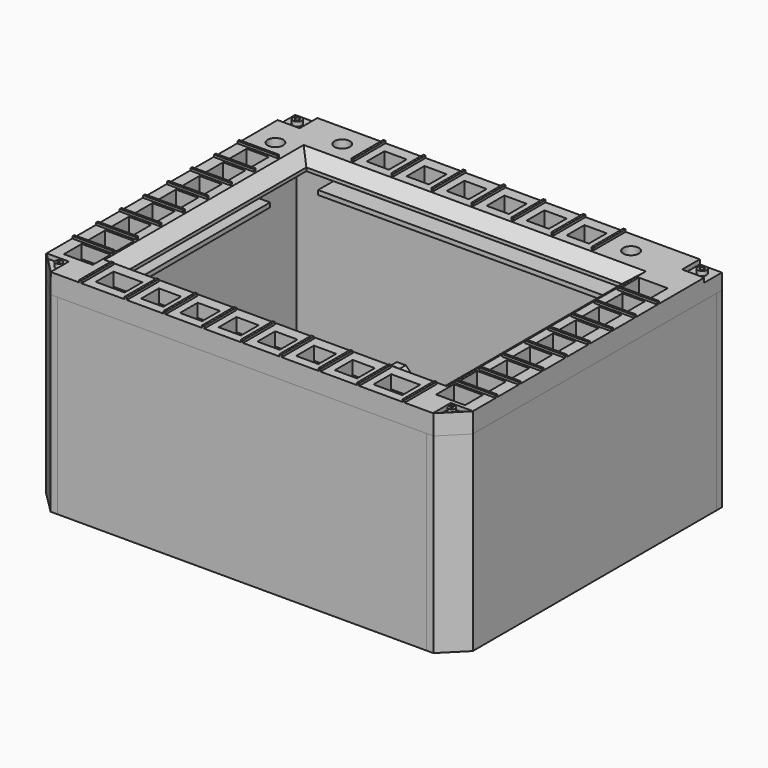
from build123d import *

# Parameters (mm, degrees)
SKETCH_W        = 192
SKETCH_H        = 150
SKETCH_W_2      = 142
SKETCH_H_2      = 100
PAD_DEPTH       = 9
SKETCH001_W     = 156
SKETCH001_H     = 119
POCKET_DEPTH    = 3
SKETCH002_W     = 13
SKETCH002_H     = 10
SKETCH002_W_2   = 10
POCKET001_DEPTH = 9.001
SKETCH003_R     = 3.5
SKETCH003_W     = 10
SKETCH003_H     = 10
SKETCH003_W_2   = 13
POCKET002_DEPTH = 9.001
SKETCH004_W     = 18
SKETCH004_H     = 1
SKETCH004_W_2   = 1
SKETCH004_H_2   = 18
PAD001_DEPTH    = 1
POCKET003_DEPTH = 9.001
SKETCH005_W     = 10
SKETCH005_H     = 10
SKETCH005_R     = 2
SKETCH005_R_2   = 1
POCKET004_DEPTH = 2
SKETCH006_R     = 1.5
SKETCH006_R_2   = 0.5
POCKET005_DEPTH = 2
SKETCH007_W     = 45
SKETCH007_H     = 5
SKETCH007_W_2   = 10
SKETCH007_H_2   = 15
POCKET006_DEPTH = 3
CHAMFER_SIZE2   = 4.5
CHAMFER_SIZE    = 6
SKETCH010_W     = 192
SKETCH010_H     = 3
PAD002_DEPTH    = 86
SKETCH011_W     = 3.131538
SKETCH011_H     = 137.224609
SKETCH011_W_2   = 3.034195
SKETCH011_H_2   = 137.037971
PAD003_DEPTH    = 86
PAD004_DEPTH    = 86
PAD005_DEPTH    = 86
SKETCH021_W     = 10
SKETCH021_H     = 10
PAD007_DEPTH    = 10
CHAMFER001_SIZE = 3
CHAMFER002_SIZE = 3
SKETCH022_W     = 10
SKETCH022_H     = 10
PAD008_DEPTH    = 10
CHAMFER003_SIZE = 3
SKETCH014_W     = 10
SKETCH014_H     = 10
PAD009_DEPTH    = 10
SKETCH023_W     = 10
SKETCH023_H     = 10
PAD010_DEPTH    = 10
CHAMFER004_SIZE = 3
CHAMFER005_SIZE = 3
SKETCH025_R     = 1.7
HOLE001_DEPTH   = 25
HOLE001_TIPS_R  = 1.7
SKETCH029_W     = 148.64
SKETCH029_H     = 2
PAD011_DEPTH    = 12
SKETCH026_W     = 145
SKETCH026_H     = 2
PAD012_DEPTH    = 12
SKETCH028_W     = 104
SKETCH028_H     = 2
PAD013_DEPTH    = 12
SKETCH027_W     = 114
SKETCH027_H     = 2
PAD014_DEPTH    = 12
PAD006_DEPTH    = 2
SKETCH020_W     = 68
SKETCH020_H     = 20
POCKET007_DEPTH = 2
SKETCH024_R     = 1.7
HOLE_DEPTH      = 2.001


with BuildPart() as obj1:
    # Sketch → Pad (new body)
    with BuildSketch(Plane.XY):
        with Locations((1.856875, 0.802246)):
            Rectangle(SKETCH_W, SKETCH_H)
        with Locations((1.856875, 0.802246)):
            Rectangle(SKETCH_W_2, SKETCH_H_2, mode=Mode.SUBTRACT)
    extrude(amount=PAD_DEPTH)

    # Sketch001 (on Face9 of Pad) → Pocket (cut)
    with BuildSketch(Plane(origin=(0, 0, 0), x_dir=(1, 0, 0), z_dir=(0, 0, -1))):
        with Locations((-0.66, 1)):
            Rectangle(SKETCH001_W, SKETCH001_H)
    extrude(amount=-POCKET_DEPTH, mode=Mode.SUBTRACT)

    # Sketch002 (on Face5 of Pocket) → Pocket001 (cut, through all)
    with BuildSketch(Plane.XY.offset(9)):
        with Locations((-60.64, -65.19)):
            Rectangle(SKETCH002_W, SKETCH002_H)
        with Locations((64.35, -65.19)):
            Rectangle(SKETCH002_W, SKETCH002_H)
        with Locations((-41.71, -65.19)):
            Rectangle(SKETCH002_W_2, SKETCH002_H)
        with Locations((-24.22, -65.19)):
            Rectangle(SKETCH002_W_2, SKETCH002_H)
        with Locations((-6.79, -65.19)):
            Rectangle(SKETCH002_W_2, SKETCH002_H)
        with Locations((10.64, -65.19)):
            Rectangle(SKETCH002_W_2, SKETCH002_H)
        with Locations((28.07, -65.19)):
            Rectangle(SKETCH002_W_2, SKETCH002_H)
        with Locations((45.5, -65.19)):
            Rectangle(SKETCH002_W_2, SKETCH002_H)
    extrude(amount=-POCKET001_DEPTH, mode=Mode.SUBTRACT)

    # Sketch003 (on Face5 of Pocket) → Pocket002 (cut, through all)
    with BuildSketch(Plane.XY.offset(9)):
        with Locations((-83.999988, 52)):
            Circle(SKETCH003_R)
        with Locations((-65, 65.8)):
            Circle(SKETCH003_R)
        with Locations((65, 65.8)):
            Circle(SKETCH003_R)
        with Locations((-83.999995, -16)):
            Rectangle(SKETCH003_W, SKETCH003_H)
        with Locations((-83.999994, -2.75)):
            Rectangle(SKETCH003_W, SKETCH003_H)
        with Locations((-83.999992, 10.5)):
            Rectangle(SKETCH003_W, SKETCH003_H)
        with Locations((-83.999991, 23.75)):
            Rectangle(SKETCH003_W, SKETCH003_H)
        with Locations((-83.99999, 37)):
            Rectangle(SKETCH003_W, SKETCH003_H)
        with Locations((86.35, -57.44)):
            Rectangle(SKETCH003_W_2, SKETCH003_H)
        with Locations((86.35, -44.44)):
            Rectangle(SKETCH003_W_2, SKETCH003_H)
        with Locations((87.85, -31.44)):
            Rectangle(SKETCH003_W, SKETCH003_H)
        with Locations((87.85, -18.44)):
            Rectangle(SKETCH003_W, SKETCH003_H)
        with Locations((87.85, -5.44)):
            Rectangle(SKETCH003_W, SKETCH003_H)
        with Locations((87.85, 7.56)):
            Rectangle(SKETCH003_W, SKETCH003_H)
        with Locations((87.85, 20.56)):
            Rectangle(SKETCH003_W, SKETCH003_H)
        with Locations((87.85, 33.56)):
            Rectangle(SKETCH003_W, SKETCH003_H)
        with Locations((86.35, 46.56)):
            Rectangle(SKETCH003_W_2, SKETCH003_H)
        with Locations((-45, 65.8)):
            Rectangle(SKETCH003_W, SKETCH003_H)
        with Locations((-27, 65.8)):
            Rectangle(SKETCH003_W, SKETCH003_H)
        with Locations((-9, 65.8)):
            Rectangle(SKETCH003_W, SKETCH003_H)
        with Locations((9, 65.8)):
            Rectangle(SKETCH003_W, SKETCH003_H)
        with Locations((27, 65.8)):
            Rectangle(SKETCH003_W, SKETCH003_H)
        with Locations((45, 65.8)):
            Rectangle(SKETCH003_W, SKETCH003_H)
        with Locations((-84, -29.25)):
            Rectangle(SKETCH003_W, SKETCH003_H)
        with Locations((-82.5, -42.5)):
            Rectangle(SKETCH003_W_2, SKETCH003_H)
        with Locations((-82.5, -55.75)):
            Rectangle(SKETCH003_W_2, SKETCH003_H)
    extrude(amount=-POCKET002_DEPTH, mode=Mode.SUBTRACT)

    # Sketch004 (on Face5 of Pocket) → Pad001 (join)
    with BuildSketch(Plane.XY.offset(9)):
        with Locations((-85, -49.125)):
            Rectangle(SKETCH004_W, SKETCH004_H)
        with Locations((-85, -35.875)):
            Rectangle(SKETCH004_W, SKETCH004_H)
        with Locations((-85, -22.625)):
            Rectangle(SKETCH004_W, SKETCH004_H)
        with Locations((-85, -9.375)):
            Rectangle(SKETCH004_W, SKETCH004_H)
        with Locations((-85, 3.875)):
            Rectangle(SKETCH004_W, SKETCH004_H)
        with Locations((-85, 17.125)):
            Rectangle(SKETCH004_W, SKETCH004_H)
        with Locations((-85, 30.375)):
            Rectangle(SKETCH004_W, SKETCH004_H)
        with Locations((-85, 43.625)):
            Rectangle(SKETCH004_W, SKETCH004_H)
        with Locations((-54, 66.8)):
            Rectangle(SKETCH004_W_2, SKETCH004_H_2)
        with Locations((-36, 66.8)):
            Rectangle(SKETCH004_W_2, SKETCH004_H_2)
        with Locations((-18, 66.8)):
            Rectangle(SKETCH004_W_2, SKETCH004_H_2)
        with Locations((0, 66.8)):
            Rectangle(SKETCH004_W_2, SKETCH004_H_2)
        with Locations((18, 66.8)):
            Rectangle(SKETCH004_W_2, SKETCH004_H_2)
        with Locations((36, 66.8)):
            Rectangle(SKETCH004_W_2, SKETCH004_H_2)
        with Locations((54, 66.8)):
            Rectangle(SKETCH004_W_2, SKETCH004_H_2)
        with Locations((88.85, 40.06)):
            Rectangle(SKETCH004_W, SKETCH004_H)
        with Locations((88.85, 27.06)):
            Rectangle(SKETCH004_W, SKETCH004_H)
        with Locations((88.85, 14.06)):
            Rectangle(SKETCH004_W, SKETCH004_H)
        with Locations((88.85, 1.06)):
            Rectangle(SKETCH004_W, SKETCH004_H)
        with Locations((88.85, -11.94)):
            Rectangle(SKETCH004_W, SKETCH004_H)
        with Locations((88.85, -24.94)):
            Rectangle(SKETCH004_W, SKETCH004_H)
        with Locations((88.85, -37.94)):
            Rectangle(SKETCH004_W, SKETCH004_H)
        with Locations((88.85, -50.94)):
            Rectangle(SKETCH004_W, SKETCH004_H)
        with Locations((54.155, -65.2)):
            Rectangle(SKETCH004_W_2, SKETCH004_H_2)
        with Locations((36.725, -65.2)):
            Rectangle(SKETCH004_W_2, SKETCH004_H_2)
        with Locations((74.585, -65.2)):
            Rectangle(SKETCH004_W_2, SKETCH004_H_2)
        with Locations((19.295, -65.2)):
            Rectangle(SKETCH004_W_2, SKETCH004_H_2)
        with Locations((1.865, -65.2)):
            Rectangle(SKETCH004_W_2, SKETCH004_H_2)
        with Locations((-15.565, -65.2)):
            Rectangle(SKETCH004_W_2, SKETCH004_H_2)
        with Locations((-32.995, -65.2)):
            Rectangle(SKETCH004_W_2, SKETCH004_H_2)
        with Locations((-50.425, -65.2)):
            Rectangle(SKETCH004_W_2, SKETCH004_H_2)
        with Locations((-70.855, -65.2)):
            Rectangle(SKETCH004_W_2, SKETCH004_H_2)
    extrude(amount=PAD001_DEPTH)

    # Sketch009 (on Face5 of Pad001) → Pocket003 (cut, through all)
    with BuildSketch(Plane.XY.offset(9)):
        Polygon((87.95, -74.25), (97.95, -64.25), (97.95, -74.25), align=None)
        Polygon((-84.2, -74.24), (-94.2, -64.24), (-94.2, -74.24), align=None)
    extrude(amount=-POCKET003_DEPTH, mode=Mode.SUBTRACT)

    # Sketch005 (on Face5 of Pocket) → Pocket004 (cut)
    with BuildSketch(Plane.XY.offset(9)):
        with Locations((-89.19, 70.85)):
            Rectangle(SKETCH005_W, SKETCH005_H)
        with Locations((-89.19, 70.85)):
            Circle(SKETCH005_R, mode=Mode.SUBTRACT)
        with Locations((92.9, 70.85)):
            Rectangle(SKETCH005_W, SKETCH005_H)
        with Locations((92.9, 70.85)):
            Circle(SKETCH005_R, mode=Mode.SUBTRACT)
        with Locations((92.9, 70.85)):
            Circle(SKETCH005_R_2)
        with Locations((-89.19, 70.85)):
            Circle(SKETCH005_R_2)
    extrude(amount=-POCKET004_DEPTH, mode=Mode.SUBTRACT)

    # Sketch006 (on Face5 of Pocket) → Pocket005 (cut)
    with BuildSketch(Plane.XY.offset(9)):
        Polygon((-94.15, -64), (-84.15, -74.2), (-84.15, -64), align=None)
        with Locations((-86.65, -66.5)):
            Circle(SKETCH006_R, mode=Mode.SUBTRACT)
        Polygon((87.85, -74.21), (97.85, -64.2), (87.85, -64.2), align=None)
        with Locations((90.35, -66.7)):
            Circle(SKETCH006_R, mode=Mode.SUBTRACT)
        with Locations((-86.65, -66.5)):
            Circle(SKETCH006_R_2)
        with Locations((90.35, -66.7)):
            Circle(SKETCH006_R_2)
    extrude(amount=-POCKET005_DEPTH, mode=Mode.SUBTRACT)

    # Sketch007 (on Face4 of Pocket) → Pocket006 (cut)
    with BuildSketch(Plane(origin=(0, 0, 0), x_dir=(1, 0, 0), z_dir=(0, 0, -1))):
        with Locations((-33.15, 63)):
            Rectangle(SKETCH007_W, SKETCH007_H)
        with Locations((-83.65, 53)):
            Rectangle(SKETCH007_W_2, SKETCH007_H_2)
    extrude(amount=-POCKET006_DEPTH, mode=Mode.SUBTRACT)

    # Chamfer
    chamfer_edges = [obj1.edges().sort_by_distance(p)[0] for p in [
        (1.856875, 50.802246, 9),
        (-69.143125, 0.802246, 9),
        (72.856875, 0.802246, 9),
        (1.856875, -49.197754, 9),
    ]]
    chamfer_side = obj1.faces().sort_by_distance((1.855, 73.365773, 9))[0]
    chamfer(chamfer_edges, length=CHAMFER_SIZE, length2=CHAMFER_SIZE2, reference=chamfer_side)

    # Sketch010 (on Face270 of Chamfer) → Pad002 (join)
    with BuildSketch(Plane(origin=(0, 0, 0), x_dir=(1, 0, 0), z_dir=(0, 0, -1))):
        with Locations((1.86, -74.3)):
            Rectangle(SKETCH010_W, SKETCH010_H)
    extrude(amount=PAD002_DEPTH)

    # Sketch011 (on Face270 of Pad002) → Pad003 (join)
    with BuildSketch(Plane(origin=(0, 0, 0), x_dir=(1, 0, 0), z_dir=(0, 0, -1))):
        with Locations((96.287174, -4.26191)):
            Rectangle(SKETCH011_W, SKETCH011_H)
        with Locations((-92.641143, -4.203511)):
            Rectangle(SKETCH011_W_2, SKETCH011_H_2)
    extrude(amount=PAD003_DEPTH)

    # Sketch012 (on Face270 of Pad003) → Pad004 (join)
    with BuildSketch(Plane(origin=(0, 0, 0), x_dir=(1, 0, 0), z_dir=(0, 0, -1))):
        Polygon((-94.141174, 64.30661), (-84.221466, 74.196297), (-81.221466, 74.196297), (-91.128716, 64.30661), align=None)
        Polygon((97.856697, 64.340675), (94.856697, 64.340675), (84.99929, 74.19799), (87.99929, 74.19799), align=None)
    extrude(amount=PAD004_DEPTH)

    # Sketch013 (on Face270 of Pad004) → Pad005 (join)
    with BuildSketch(Plane(origin=(0, 0, 0), x_dir=(1, 0, 0), z_dir=(0, 0, -1))):
        Polygon((85.007668, 74.194016), (-81.223076, 74.194016), (-84.2211, 71.194016), (88.307602, 71.194016), align=None)
    extrude(amount=PAD005_DEPTH)

    # Sketch021 (on Face364 of Pad005) → Pad007 (join)
    with BuildSketch(Plane.YZ.offset(-91.124046)):
        with Locations((44, -79)):
            Rectangle(SKETCH021_W, SKETCH021_H)
        with Locations((-44, -79)):
            Rectangle(SKETCH021_W, SKETCH021_H)
    extrude(amount=PAD007_DEPTH)

    # Chamfer001
    chamfer001_edges = [obj1.edges().sort_by_distance(p)[0] for p in [
        (-86.124046, -39, -74),
        (-86.124046, -49, -74),
        (-81.124046, -44, -74),
        (-81.124046, -49, -79),
        (-81.124046, -39, -79),
    ]]
    chamfer(chamfer001_edges, length=CHAMFER001_SIZE)

    # Chamfer002
    chamfer002_edges = [obj1.edges().sort_by_distance(p)[0] for p in [
        (-81.124046, 39, -79),
        (-81.124046, 49, -79),
        (-86.124046, 49, -74),
        (-81.124046, 44, -74),
        (-86.124046, 39, -74),
    ]]
    chamfer(chamfer002_edges, length=CHAMFER002_SIZE)

    # Sketch022 (on Face353 of Pad005) → Pad008 (join)
    with BuildSketch(Plane.XZ.offset(-72.8)):
        with Locations((44, -79)):
            Rectangle(SKETCH022_W, SKETCH022_H)
        with Locations((-44, -79)):
            Rectangle(SKETCH022_W, SKETCH022_H)
    extrude(amount=PAD008_DEPTH)

    # Chamfer003
    chamfer003_edges = [obj1.edges().sort_by_distance(p)[0] for p in [
        (-39, 67.8, -74),
        (-44, 62.8, -74),
        (-49, 67.8, -74),
        (-49, 62.8, -79),
        (-39, 62.8, -79),
        (49, 67.8, -74),
        (44, 62.8, -74),
        (39, 67.8, -74),
        (39, 62.8, -79),
        (49, 62.8, -79),
    ]]
    chamfer(chamfer003_edges, length=CHAMFER003_SIZE)

    # Sketch014 (on Face357 of Pad005) → Pad009 (join)
    with BuildSketch(Plane(origin=(0, -71.194016, 0), x_dir=(-1, 0, 0), z_dir=(0, 1, 0))):
        with Locations((66, -79)):
            Rectangle(SKETCH014_W, SKETCH014_H)
        with Locations((-66, -79)):
            Rectangle(SKETCH014_W, SKETCH014_H)
    extrude(amount=PAD009_DEPTH)

    # Sketch023 (on Face354 of Pad005) → Pad010 (join)
    with BuildSketch(Plane(origin=(94.721405, 0, 0), x_dir=(0, -1, 0), z_dir=(-1, 0, 0))):
        with Locations((44, -79)):
            Rectangle(SKETCH023_W, SKETCH023_H)
        with Locations((-44, -79)):
            Rectangle(SKETCH023_W, SKETCH023_H)
    extrude(amount=PAD010_DEPTH)

    # Chamfer004
    chamfer004_edges = [obj1.edges().sort_by_distance(p)[0] for p in [
        (89.721405, 39, -74),
        (84.721405, 39, -79),
        (84.721405, 44, -74),
        (84.721405, 49, -79),
        (89.721405, 49, -74),
        (89.721405, -39, -74),
        (89.721405, -49, -74),
        (84.721405, -44, -74),
        (84.721405, -49, -79),
        (84.721405, -39, -79),
    ]]
    chamfer(chamfer004_edges, length=CHAMFER004_SIZE)

    # Chamfer005
    chamfer005_edges = [obj1.edges().sort_by_distance(p)[0] for p in [
        (71, -66.194016, -74),
        (61, -66.194016, -74),
        (61, -61.194016, -79),
        (66, -61.194016, -74),
        (71, -61.194016, -79),
        (-71, -66.194016, -74),
        (-66, -61.194016, -74),
        (-71, -61.194016, -79),
        (-61, -61.194016, -79),
        (-61, -66.194016, -74),
    ]]
    chamfer(chamfer005_edges, length=CHAMFER005_SIZE)

    # Sketch025 (on Face14 of Chamfer005) → Hole001 (cut)
    with BuildSketch(Plane(origin=(0, 0, -84), x_dir=(1, 0, 0), z_dir=(0, 0, -1))):
        with Locations((-66, 66.23)):
            Circle(SKETCH025_R)
        with Locations((66, 66.23)):
            Circle(SKETCH025_R)
        with Locations((-86.2282, 44)):
            Circle(SKETCH025_R)
        with Locations((-86.2282, -44)):
            Circle(SKETCH025_R)
        with Locations((89.72, 44)):
            Circle(SKETCH025_R)
        with Locations((89.72, -44)):
            Circle(SKETCH025_R)
        with Locations((44, -67.83)):
            Circle(SKETCH025_R)
        with Locations((-44, -67.83)):
            Circle(SKETCH025_R)
    extrude(amount=-HOLE001_DEPTH, mode=Mode.SUBTRACT)

    # Hole001 tips → Hole001 tip 1 section 0
    with BuildSketch(Plane(origin=(0, 0, -59), x_dir=(1, 0, 0), z_dir=(0, 0, -1)), mode=Mode.PRIVATE) as hole001_tip_1_s0:
        with Locations((-66, 66.23)):
            Circle(HOLE001_TIPS_R)
    loft([hole001_tip_1_s0.sketch, Vertex(-66, -66.23, -57.978537)], mode=Mode.SUBTRACT)

    # Hole001 tips → Hole001 tip 2 section 0
    with BuildSketch(Plane(origin=(0, 0, -59), x_dir=(1, 0, 0), z_dir=(0, 0, -1)), mode=Mode.PRIVATE) as hole001_tip_2_s0:
        with Locations((66, 66.23)):
            Circle(HOLE001_TIPS_R)
    loft([hole001_tip_2_s0.sketch, Vertex(66, -66.23, -57.978537)], mode=Mode.SUBTRACT)

    # Hole001 tips → Hole001 tip 3 section 0
    with BuildSketch(Plane(origin=(0, 0, -59), x_dir=(1, 0, 0), z_dir=(0, 0, -1)), mode=Mode.PRIVATE) as hole001_tip_3_s0:
        with Locations((-86.2282, 44)):
            Circle(HOLE001_TIPS_R)
    loft([hole001_tip_3_s0.sketch, Vertex(-86.2282, -44, -57.978537)], mode=Mode.SUBTRACT)

    # Hole001 tips → Hole001 tip 4 section 0
    with BuildSketch(Plane(origin=(0, 0, -59), x_dir=(1, 0, 0), z_dir=(0, 0, -1)), mode=Mode.PRIVATE) as hole001_tip_4_s0:
        with Locations((-86.2282, -44)):
            Circle(HOLE001_TIPS_R)
    loft([hole001_tip_4_s0.sketch, Vertex(-86.2282, 44, -57.978537)], mode=Mode.SUBTRACT)

    # Hole001 tips → Hole001 tip 5 section 0
    with BuildSketch(Plane(origin=(0, 0, -59), x_dir=(1, 0, 0), z_dir=(0, 0, -1)), mode=Mode.PRIVATE) as hole001_tip_5_s0:
        with Locations((89.72, 44)):
            Circle(HOLE001_TIPS_R)
    loft([hole001_tip_5_s0.sketch, Vertex(89.72, -44, -57.978537)], mode=Mode.SUBTRACT)

    # Hole001 tips → Hole001 tip 6 section 0
    with BuildSketch(Plane(origin=(0, 0, -59), x_dir=(1, 0, 0), z_dir=(0, 0, -1)), mode=Mode.PRIVATE) as hole001_tip_6_s0:
        with Locations((89.72, -44)):
            Circle(HOLE001_TIPS_R)
    loft([hole001_tip_6_s0.sketch, Vertex(89.72, 44, -57.978537)], mode=Mode.SUBTRACT)

    # Hole001 tips → Hole001 tip 7 section 0
    with BuildSketch(Plane(origin=(0, 0, -59), x_dir=(1, 0, 0), z_dir=(0, 0, -1)), mode=Mode.PRIVATE) as hole001_tip_7_s0:
        with Locations((44, -67.83)):
            Circle(HOLE001_TIPS_R)
    loft([hole001_tip_7_s0.sketch, Vertex(44, 67.83, -57.978537)], mode=Mode.SUBTRACT)

    # Hole001 tips → Hole001 tip 8 section 0
    with BuildSketch(Plane(origin=(0, 0, -59), x_dir=(1, 0, 0), z_dir=(0, 0, -1)), mode=Mode.PRIVATE) as hole001_tip_8_s0:
        with Locations((-44, -67.83)):
            Circle(HOLE001_TIPS_R)
    loft([hole001_tip_8_s0.sketch, Vertex(-44, 67.83, -57.978537)], mode=Mode.SUBTRACT)

    # Sketch029 (on Face29 of Hole001) → Pad011 (join)
    with BuildSketch(Plane.XZ.offset(-72.8)):
        with Locations((2.47, -10.4)):
            Rectangle(SKETCH029_W, SKETCH029_H)
    extrude(amount=PAD011_DEPTH)

    # Sketch026 (on Face1 of Hole001) → Pad012 (join)
    with BuildSketch(Plane(origin=(0, -71.194016, 0), x_dir=(-1, 0, 0), z_dir=(0, 1, 0))):
        with Locations((0, -10.4)):
            Rectangle(SKETCH026_W, SKETCH026_H)
    extrude(amount=PAD012_DEPTH)

    # Sketch028 (on Face39 of Hole001) → Pad013 (join)
    with BuildSketch(Plane.YZ.offset(-91.124046)):
        with Locations((-9.13, -10.4)):
            Rectangle(SKETCH028_W, SKETCH028_H)
    extrude(amount=PAD013_DEPTH)

    # Sketch027 (on Face30 of Hole001) → Pad014 (join)
    with BuildSketch(Plane(origin=(94.721405, 0, 0), x_dir=(0, -1, 0), z_dir=(-1, 0, 0))):
        with Locations((4.93, -10.4)):
            Rectangle(SKETCH027_W, SKETCH027_H)
    extrude(amount=PAD014_DEPTH)


with BuildPart() as backcap001:
    # Sketch019 → Pad006 (new body)
    with BuildSketch(Plane.XY.offset(-86)):
        Polygon((-90.5, 72.13), (94.5, 72.13), (94.5, -64.37), (88, -70.87), (-84, -70.87), (-90.5, -64.37), align=None)
    extrude(amount=PAD006_DEPTH)

    # Sketch020 (on Face7 of Pad006) → Pocket007 (cut)
    with BuildSketch(Plane(origin=(0, 0, -86), x_dir=(1, 0, 0), z_dir=(0, 0, -1))):
        with Locations((0, 61.19)):
            Rectangle(SKETCH020_W, SKETCH020_H)
    extrude(amount=-POCKET007_DEPTH, mode=Mode.SUBTRACT)

    # Sketch024 (on Face4 of Pocket007) → Hole (cut, through all)
    with BuildSketch(Plane(origin=(0, 0, -86), x_dir=(1, 0, 0), z_dir=(0, 0, -1))):
        with Locations((-85.52, -44)):
            Circle(SKETCH024_R)
        with Locations((-85.52, 44)):
            Circle(SKETCH024_R)
        with Locations((89.44, 44)):
            Circle(SKETCH024_R)
        with Locations((89.44, -44)):
            Circle(SKETCH024_R)
        with Locations((-66, 66.2)):
            Circle(SKETCH024_R)
        with Locations((66, 66.2)):
            Circle(SKETCH024_R)
        with Locations((-44, -67.2)):
            Circle(SKETCH024_R)
        with Locations((44, -67.2)):
            Circle(SKETCH024_R)
    extrude(amount=-HOLE_DEPTH, mode=Mode.SUBTRACT)


solid = Compound([obj1.part, backcap001.part])
